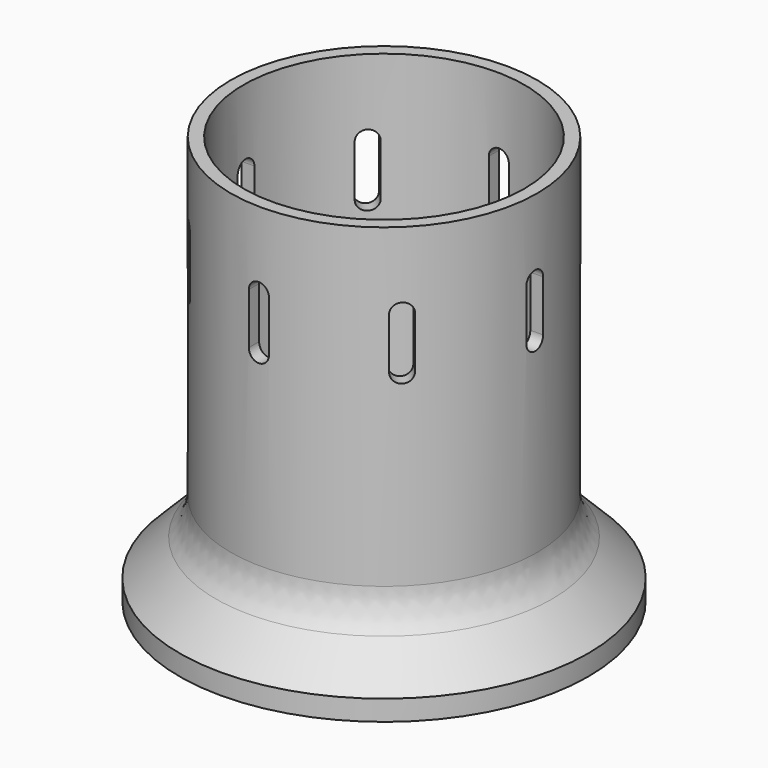
from build123d import *

# Parameters (mm, degrees)
F5_DEPTH = 12.7
F6_COUNT = 8
F7_R     = 12.7


with BuildPart() as f1:
    # F0 (on Front) → F1 (revolve)
    with BuildSketch(Plane.XZ):
        Polygon((0, 0), (50.8, 0), (50.8, 5.08), (38.1, 17.78), (38.1, 63.3250571847), (38.1, 101.6), (34.925, 101.6), (34.925, 63.3250571847), (34.925, 15.24), (45.085, 5.08), (0, 5.08), align=None)
    revolve(axis=Axis((0, 0, 53.34), (0, 0, 1)))

    # F4 (on line) → F5 (cut)
    with BuildSketch(Plane.XZ.offset(38.1)):
        with BuildLine():
            Line((1.8568224909, 69.85), (1.8568224909, 82.55))
            ThreePointArc((1.8568224909, 82.55), (-0.6831775091, 85.09), (-3.2231775091, 82.55))
            Line((-3.2231775091, 82.55), (-3.2231775091, 69.85))
            ThreePointArc((-3.2231775091, 69.85), (-0.6831775091, 67.31), (1.8568224909, 69.85))
        make_face()
    f5 = extrude(amount=-F5_DEPTH, mode=Mode.SUBTRACT)

    # F6: F5 ×8 about axis
    f6_axis = Axis((0, 0, 0), (0, 0, 1))
    for i in range(1, F6_COUNT):
        add(f5.rotate(f6_axis, i * 360 / F6_COUNT), mode=Mode.SUBTRACT)

    # F7
    f7_edges = [f1.edges().sort_by_distance(p)[0] for p in [
        (-38.1, 0, 17.78),
    ]]
    fillet(f7_edges, radius=F7_R)


solid = f1.part
